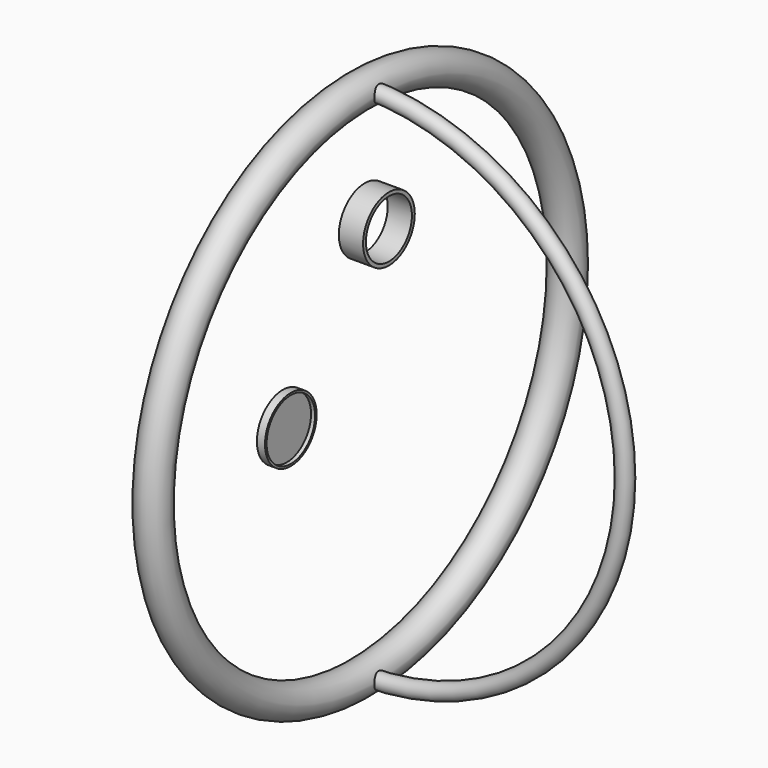
from build123d import *

# Parameters (mm, degrees)
F0_R      = 25.4
F3_R      = 12.7
F6_R      = 50.8
F7_DEPTH  = 38.1
F8_R      = 45.2205386418
F9_DEPTH  = 50.8
F10_R     = 50.8
F11_DEPTH = 12.7
F12_R     = 47.625
F13_DEPTH = 6.35


with BuildPart() as f2:
    # F2: sweep along a path in F1
    with BuildLine(Plane.YZ) as f2_path:
        CenterArc((-8.7693777958, -406.7842066288), 406.8787199517, 0, 360)
    # F0 (on Front) → F2 (sweep)
    with BuildSketch(Plane.XZ):
        Circle(F0_R)
    sweep(path=f2_path.line)


with BuildPart() as f5:
    # F5: sweep along a path in F4
    with BuildLine(Plane.XZ) as f5_path:
        ThreePointArc((0, -814.1242861748), (409.2047133916, -407.0621430874), (0, 0))
    # F3 (on Right) → F5 (sweep)
    with BuildSketch(Plane.YZ):
        Circle(F3_R)
    sweep(path=f5_path.line)


with BuildPart() as f7:
    # F6 (on Right) → F7 (new body)
    with BuildSketch(Plane.YZ):
        with Locations((0, -183.4704634827)):
            Circle(F6_R)
    extrude(amount=F7_DEPTH)

    # F8 (on face) → F9 (cut)
    with BuildSketch(Plane(origin=(0, 0, 0), x_dir=(0, -1, 0), z_dir=(-1, 0, 0))):
        with Locations((0, -183.4704634827)):
            Circle(F8_R)
    extrude(amount=-F9_DEPTH, mode=Mode.SUBTRACT)


with BuildPart() as f11:
    # F10 (on Right) → F11 (new body)
    with BuildSketch(Plane.YZ):
        with Locations((-160.9752178192, -403.8833081722)):
            Circle(F10_R)
    extrude(amount=F11_DEPTH)

    # F12 (on face) → F13 (cut)
    with BuildSketch(Plane.YZ.offset(12.7)):
        with Locations((-160.9752178192, -403.8833081722)):
            Circle(F12_R)
    extrude(amount=-F13_DEPTH, mode=Mode.SUBTRACT)


solid = Compound([f2.part, f5.part, f7.part, f11.part])
